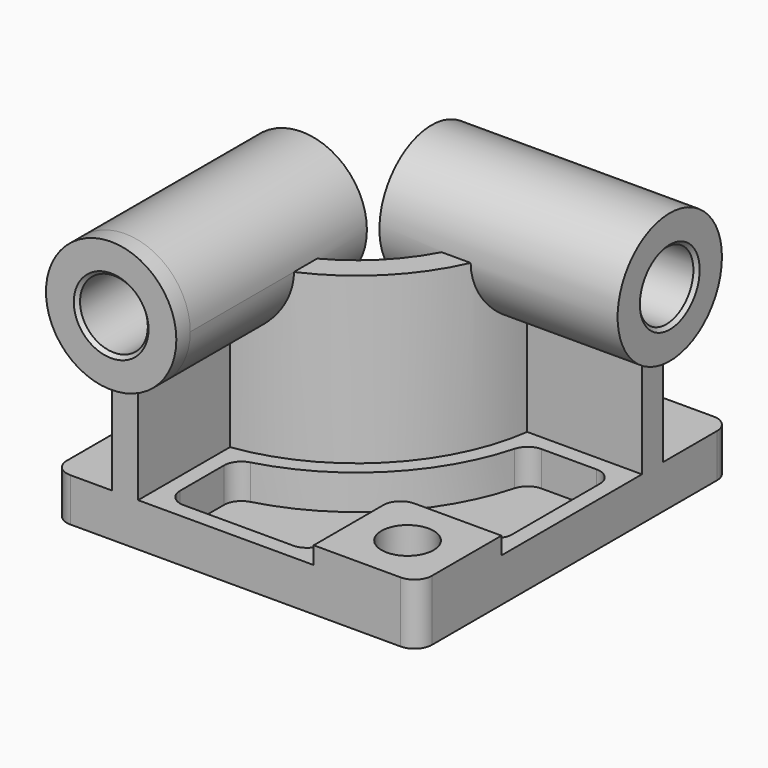
from build123d import *

# Parameters (mm, degrees)
F0_W            = 5334
F0_H            = 5715
F1_DEPTH        = 635
F3_DEPTH        = 2413
F4_R            = 952.5
F5_DEPTH        = 254
F5_DEPTH_BACK   = 3225.8
F6_R            = 952.5
F7_DEPTH        = 254
F7_DEPTH_BACK   = 3225.8
F8_W            = 1524
F8_H            = 1524
F9_DEPTH        = 254
F10_R           = 254
F12_DEPTH       = 508
F14_D           = 762
F14_CBORE_D     = 762
F14_CBORE_DEPTH = 254
F15_R           = 254
F16_R           = 254
F17_R           = 495.3
F18_DEPTH       = 5969.001
F19_R           = 495.3
F20_DEPTH       = 5588.001
F21_SIZE        = 50.8
F22_R           = 254


with BuildPart() as f1:
    # F0 (on Top) → F1 (new body)
    with BuildSketch(Plane.XY):
        Rectangle(F0_W, F0_H)
    extrude(amount=F1_DEPTH)

    # F2 (on face) → F3 (join)
    with BuildSketch(Plane.XY.offset(635)):
        with BuildLine():
            Line((-1803.4, -825.5), (-1803.4, -2857.5))
            Line((-1803.4, -2857.5), (-1422.4, -2857.5))
            Line((-1422.4, -2857.5), (-1422.4, -1180.638144))
            ThreePointArc((-1422.4, -1180.638144), (190.216859, -380.716859), (990.138144, 1231.9))
            Line((990.138144, 1231.9), (2667, 1231.9))
            Line((2667, 1231.9), (2667, 1612.9))
            Line((2667, 1612.9), (635, 1612.9))
            ThreePointArc((635, 1612.9), (-79.190825, -111.309175), (-1803.4, -825.5))
        make_face()
    extrude(amount=F3_DEPTH)

    # F4 (on face) → F5 (join, two sides)
    with BuildSketch(Plane.XZ.offset(2857.5)) as f5_sk:
        with Locations((-1612.9, 3048)):
            Circle(F4_R)
    extrude(amount=F5_DEPTH)
    extrude(f5_sk.sketch, amount=-F5_DEPTH_BACK)

    # F6 (on face) → F7 (join, two sides)
    with BuildSketch(Plane.YZ.offset(2667)) as f7_sk:
        with Locations((1422.4, 3048)):
            Circle(F6_R)
    extrude(amount=F7_DEPTH)
    extrude(f7_sk.sketch, amount=-F7_DEPTH_BACK)

    # F8 (on face) → F9 (join)
    with BuildSketch(Plane.XY.offset(635)):
        with Locations((1905, -2095.5)):
            Rectangle(F8_W, F8_H)
    extrude(amount=F9_DEPTH)

    # F10
    f10_edges = [f1.edges().sort_by_distance(p)[0] for p in [
        (1143, -1333.5, 762),
    ]]
    fillet(f10_edges, radius=F10_R)

    # F11 (on face) → F12 (cut)
    with BuildSketch(Plane.XY.offset(635)):
        with BuildLine():
            ThreePointArc((1183.017894, 1003.3), (351.861469, -542.361469), (-1193.8, -1373.517894))
            Line((-1193.8, -1373.517894), (-1193.8, -2628.9))
            Line((-1193.8, -2628.9), (914.4, -2628.9))
            Line((914.4, -2628.9), (914.4, -1587.5))
            ThreePointArc((914.4, -1587.5), (1055.750267, -1246.250267), (1397, -1104.9))
            Line((1397, -1104.9), (2438.4, -1104.9))
            Line((2438.4, -1104.9), (2438.4, 1003.3))
            Line((2438.4, 1003.3), (1183.017894, 1003.3))
        make_face()
    extrude(amount=-F12_DEPTH, mode=Mode.SUBTRACT)

    # F14 (through all)
    with Locations(Plane.XY.offset(889)):
        with Locations((1905, -2095.5)):
            CounterBoreHole(F14_D / 2, F14_CBORE_D / 2, F14_CBORE_DEPTH)

    # F15
    f15_edges = [f1.edges().sort_by_distance(p)[0] for p in [
        (-1193.8, -1373.517894, 381),
        (1183.017894, 1003.3, 381),
        (-1193.8, -2628.9, 381),
        (2438.4, -1104.9, 381),
        (914.4, -2628.9, 381),
    ]]
    fillet(f15_edges, radius=F15_R)

    # F16
    f16_edges = [f1.edges().sort_by_distance(p)[0] for p in [
        (2438.4, 1003.3, 381),
    ]]
    fillet(f16_edges, radius=F16_R)

    # F17 (on face) → F18 (cut, through all)
    with BuildSketch(Plane.XZ.offset(3111.5)):
        with Locations((-1612.9, 3048)):
            Circle(F17_R)
    extrude(amount=-F18_DEPTH, mode=Mode.SUBTRACT)

    # F19 (on face) → F20 (cut, through all)
    with BuildSketch(Plane.YZ.offset(2921)):
        with Locations((1422.4, 3048)):
            Circle(F19_R)
    extrude(amount=-F20_DEPTH, mode=Mode.SUBTRACT)

    # F21
    f21_edges = [f1.edges().sort_by_distance(p)[0] for p in [
        (-2108.2, -3111.5, 3048),
        (2921, 927.1, 3048),
        (-2108.2, 368.3, 3048),
        (-558.8, 927.1, 3048),
    ]]
    chamfer(f21_edges, length=F21_SIZE)

    # F22
    f22_edges = [f1.edges().sort_by_distance(p)[0] for p in [
        (-2667, -2857.5, 317.5),
        (2667, -2857.5, 444.5),
        (2667, 2857.5, 317.5),
        (-2667, 2857.5, 317.5),
    ]]
    fillet(f22_edges, radius=F22_R)


solid = f1.part
